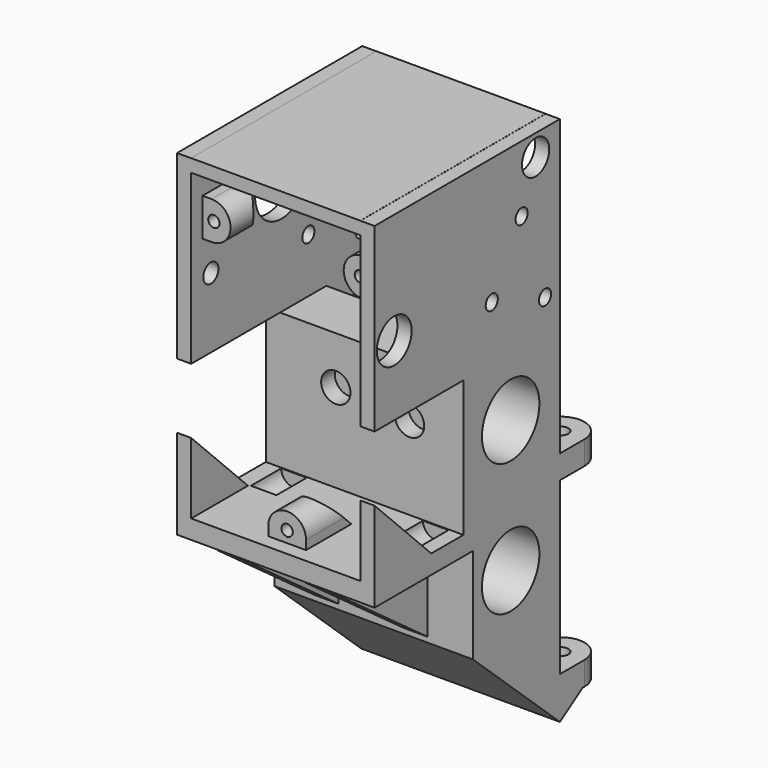
from build123d import *

# Parameters (mm, degrees)
CYLINDER168_R              = 1.6
CYLINDER168_DEPTH          = 90
CYLINDER167_R              = 1.6
CYLINDER167_DEPTH          = 90
CYLINDER109_R              = 7.6
CYLINDER109_DEPTH          = 45
CYLINDER182_R              = 3.1
CYLINDER182_DEPTH          = 28
CYLINDER203_R              = 3.1
CYLINDER203_DEPTH          = 28
CYLINDER213_R              = 4.6
CYLINDER213_DEPTH          = 10
CYLINDER184_R              = 3.6
CYLINDER184_DEPTH          = 42
CYLINDER212_R              = 7
CYLINDER212_DEPTH          = 10
CYLINDER211_R              = 2
CYLINDER211_DEPTH          = 10
CYLINDER210_R              = 2
CYLINDER210_DEPTH          = 10
CYLINDER209_R              = 1.6
CYLINDER209_DEPTH          = 53
CYLINDER196_R              = 1.6
CYLINDER196_DEPTH          = 53
CYLINDER198_R              = 1.6
CYLINDER198_DEPTH          = 53
CYLINDER110_R              = 7.6
CYLINDER110_DEPTH          = 45
CYLINDER204_R              = 1.2
CYLINDER204_DEPTH          = 15
BOX086_W                   = 10
BOX086_H                   = 10
BOX086_DEPTH               = 10
BOX086_PLACEMENT_ANGLE     = 45
EXTRUDE079_DEPTH           = 12
CUT241_PLACEMENT_ANGLE     = 90
CYLINDER206_R              = 1.2
CYLINDER206_DEPTH          = 15
BOX088_W                   = 10
BOX088_H                   = 10
BOX088_DEPTH               = 10
BOX088_PLACEMENT_ANGLE     = 45
EXTRUDE081_DEPTH           = 12
CUT245_PLACEMENT_ANGLE     = 90
CYLINDER205_R              = 1.2
CYLINDER205_DEPTH          = 15
BOX087_W                   = 10
BOX087_H                   = 10
BOX087_DEPTH               = 10
BOX087_PLACEMENT_ANGLE     = 45
EXTRUDE080_DEPTH           = 12
CYLINDER200_R              = 2.7
CYLINDER200_DEPTH          = 8
CYLINDER108_R              = 2.7
CYLINDER108_DEPTH          = 8
EXTRUDE069_DEPTH           = 5
EXTRUDE069_PLACEMENT_ANGLE = 180
EXTRUDE078_DEPTH           = 22
EXTRUDE071_DEPTH           = 5
EXTRUDE071_PLACEMENT_ANGLE = 180
EXTRUDE068_DEPTH           = 5
EXTRUDE068_PLACEMENT_ANGLE = 180
EXTRUDE072_DEPTH           = 22
EXTRUDE070_DEPTH           = 5
EXTRUDE070_PLACEMENT_ANGLE = 180
EXTRUDE077_DEPTH           = 10
EXTRUDE076_DEPTH           = 10
BOX083_W                   = 41.8
BOX083_H                   = 3
BOX083_DEPTH               = 28.8
EXTRUDE033_DEPTH           = 5
BOX077_W                   = 41.8
BOX077_H                   = 4
BOX077_DEPTH               = 26
EXTRUDE074_DEPTH           = 3
BOX085_W                   = 10
BOX085_H                   = 24
BOX085_DEPTH               = 12
BOX080_W                   = 3
BOX080_H                   = 49
BOX080_DEPTH               = 43.4
BOX082_W                   = 35.8
BOX082_H                   = 49
BOX082_DEPTH               = 2.71828
BOX084_W                   = 10
BOX084_H                   = 24
BOX084_DEPTH               = 12
BOX079_W                   = 3
BOX079_H                   = 49
BOX079_DEPTH               = 44
EXTRUDE032_DEPTH           = 5
EXTRUDE073_DEPTH           = 3
EXTRUDE075_DEPTH           = 45
CYLINDER148_R              = 11.5
CYLINDER148_DEPTH          = 44
BOX_W                      = 42
BOX_H                      = 23
BOX_DEPTH                  = 74


with BuildPart() as cylinder168:
    # Cylinder168 → Cylinder168 (new body)
    with BuildSketch(Plane(origin=(104, 44.4, -2.8), x_dir=(1, 0, 0), z_dir=(0, 0, 1))):
        Circle(CYLINDER168_R)
    extrude(amount=CYLINDER168_DEPTH)


with BuildPart() as cylinder167:
    # Cylinder167 → Cylinder167 (new body)
    with BuildSketch(Plane(origin=(136.1, 44.4, -0.3), x_dir=(1, 0, 0), z_dir=(0, 0, 1))):
        Circle(CYLINDER167_R)
    extrude(amount=CYLINDER167_DEPTH)


with BuildPart() as cylinder109:
    # Cylinder109 → Cylinder109 (new body)
    with BuildSketch(Plane(origin=(96.2, 25, 32), x_dir=(0, 1, 0), z_dir=(1, 0, 0))):
        Circle(CYLINDER109_R)
    extrude(amount=CYLINDER109_DEPTH)


with BuildPart() as cylinder182:
    # Cylinder182 → Cylinder182 (new body)
    with BuildSketch(Plane(origin=(114, -11.9, 62.4), x_dir=(1, 0, 0), z_dir=(0, 1, 0))):
        Circle(CYLINDER182_R)
    extrude(amount=CYLINDER182_DEPTH)


with BuildPart() as cylinder203:
    # Cylinder203 → Cylinder203 (new body)
    with BuildSketch(Plane(origin=(129.6, -11.9, 61.3), x_dir=(1, 0, 0), z_dir=(0, 1, 0))):
        Circle(CYLINDER203_R)
    extrude(amount=CYLINDER203_DEPTH)


with BuildPart() as cylinder213:
    # Cylinder213 → Cylinder213 (new body)
    with BuildSketch(Plane(origin=(144.1, -5.8, 87.3), x_dir=(0, 0, 1), z_dir=(-1, 0, 0))):
        Circle(CYLINDER213_R)
    extrude(amount=CYLINDER213_DEPTH)


with BuildPart() as cylinder184:
    # Cylinder184 → Cylinder184 (new body)
    with BuildSketch(Plane(origin=(144.1, 31.6, 106.3), x_dir=(0, 0, 1), z_dir=(-1, 0, 0))):
        Circle(CYLINDER184_R)
    extrude(amount=CYLINDER184_DEPTH)


with BuildPart() as cylinder212:
    # Cylinder212 → Cylinder212 (new body)
    with BuildSketch(Plane(origin=(95.3, 12.9, 96.8), x_dir=(0, 0, -1), z_dir=(1, 0, 0))):
        Circle(CYLINDER212_R)
    extrude(amount=CYLINDER212_DEPTH)


with BuildPart() as cylinder211:
    # Cylinder211 → Cylinder211 (new body)
    with BuildSketch(Plane(origin=(95.2, 31.6, 106.3), x_dir=(0, 0, -1), z_dir=(1, 0, 0))):
        Circle(CYLINDER211_R)
    extrude(amount=CYLINDER211_DEPTH)


with BuildPart() as cylinder210:
    # Cylinder210 → Cylinder210 (new body)
    with BuildSketch(Plane(origin=(95.2, -5.8, 87.3), x_dir=(0, 0, -1), z_dir=(1, 0, 0))):
        Circle(CYLINDER210_R)
    extrude(amount=CYLINDER210_DEPTH)


with BuildPart() as cylinder209:
    # Cylinder209 → Cylinder209 (new body)
    with BuildSketch(Plane(origin=(95.8, 34.1, 79.2), x_dir=(0, 0, -1), z_dir=(1, 0, 0))):
        Circle(CYLINDER209_R)
    extrude(amount=CYLINDER209_DEPTH)


with BuildPart() as cylinder196:
    # Cylinder196 → Cylinder196 (new body)
    with BuildSketch(Plane(origin=(95.8, 27.9, 96.8), x_dir=(0, 0, -1), z_dir=(1, 0, 0))):
        Circle(CYLINDER196_R)
    extrude(amount=CYLINDER196_DEPTH)


with BuildPart() as cylinder198:
    # Cylinder198 → Cylinder198 (new body)
    with BuildSketch(Plane(origin=(95.8, 20, 84), x_dir=(0, 0, -1), z_dir=(1, 0, 0))):
        Circle(CYLINDER198_R)
    extrude(amount=CYLINDER198_DEPTH)


with BuildPart() as cylinder110:
    # Cylinder110 → Cylinder110 (new body)
    with BuildSketch(Plane(origin=(96.2, 25, 60), x_dir=(0, 1, 0), z_dir=(1, 0, 0))):
        Circle(CYLINDER110_R)
    extrude(amount=CYLINDER110_DEPTH)


with BuildPart() as cylinder204:
    # Cylinder204 → Cylinder204 (new body)
    with BuildSketch(Plane(origin=(120.1, -9.1, 46.1), x_dir=(1, 0, 0), z_dir=(0, 1, 0))):
        Circle(CYLINDER204_R)
    extrude(amount=CYLINDER204_DEPTH)


with BuildPart() as box086:
    # Box086 → Box086 (new body)
    with BuildSketch(Plane.XY):
        with Locations((5, 5)):
            Rectangle(BOX086_W, BOX086_H)
    extrude(amount=BOX086_DEPTH)


with BuildPart() as box086_1:
    # Box086 placement: moved
    add(box086.part.moved(Location((115, 4.905863, 42.757899))).rotate(Axis((115, 4.905863, 42.757899), (1, 0, 0)), BOX086_PLACEMENT_ANGLE))


with BuildPart() as cut241:
    # Sketch066 → Extrude079 (new body)
    with BuildSketch(Plane.XZ):
        with BuildLine():
            ThreePointArc((117.105829, 45.629789), (113.105829, 49.62979), (109.105829, 45.629789))
            Line((109.105829, 45.629789), (109.105829, 43.629789))
            Line((109.105829, 43.629789), (117.105829, 43.629789))
            Line((117.105829, 45.629789), (117.105829, 43.629789))
        make_face()
    extrude(amount=-EXTRUDE079_DEPTH)


with BuildPart() as cut241_1:
    # Extrude079 placement: moved
    add(cut241.part.moved(Location((7, -8, 0))))

    # Cut240: cut Box086
    add(box086_1.part, mode=Mode.SUBTRACT)

    # Cut241: cut Cylinder204
    add(cylinder204.part, mode=Mode.SUBTRACT)


with BuildPart() as cut241_2:
    # Cut241 placement: moved
    add(cut241_1.part.moved(Location((181.7, 0, -21.7))).rotate(Axis((181.7, 0, -21.7), (0, -1, 0)), CUT241_PLACEMENT_ANGLE))


with BuildPart() as cylinder206:
    # Cylinder206 → Cylinder206 (new body)
    with BuildSketch(Plane(origin=(120.1, -9.1, 46.1), x_dir=(1, 0, 0), z_dir=(0, 1, 0))):
        Circle(CYLINDER206_R)
    extrude(amount=CYLINDER206_DEPTH)


with BuildPart() as box088:
    # Box088 → Box088 (new body)
    with BuildSketch(Plane.XY):
        with Locations((5, 5)):
            Rectangle(BOX088_W, BOX088_H)
    extrude(amount=BOX088_DEPTH)


with BuildPart() as box088_1:
    # Box088 placement: moved
    add(box088.part.moved(Location((115, 4.905863, 42.757899))).rotate(Axis((115, 4.905863, 42.757899), (1, 0, 0)), BOX088_PLACEMENT_ANGLE))


with BuildPart() as cut245:
    # Sketch068 → Extrude081 (new body)
    with BuildSketch(Plane.XZ):
        with BuildLine():
            ThreePointArc((117.105829, 45.629789), (113.105829, 49.62979), (109.105829, 45.629789))
            Line((109.105829, 45.629789), (109.105829, 43.629789))
            Line((109.105829, 43.629789), (117.105829, 43.629789))
            Line((117.105829, 45.629789), (117.105829, 43.629789))
        make_face()
    extrude(amount=-EXTRUDE081_DEPTH)


with BuildPart() as cut245_1:
    # Extrude081 placement: moved
    add(cut245.part.moved(Location((7, -8, 0))))

    # Cut244: cut Box088
    add(box088_1.part, mode=Mode.SUBTRACT)

    # Cut245: cut Cylinder206
    add(cylinder206.part, mode=Mode.SUBTRACT)


with BuildPart() as cut245_2:
    # Cut245 placement: moved
    add(cut245_1.part.moved(Location((58.5, 0, 218.7))).rotate(Axis((58.5, 0, 218.7), (0, 1, 0)), CUT245_PLACEMENT_ANGLE))


with BuildPart() as cylinder205:
    # Cylinder205 → Cylinder205 (new body)
    with BuildSketch(Plane(origin=(120.1, -9.1, 46.1), x_dir=(1, 0, 0), z_dir=(0, 1, 0))):
        Circle(CYLINDER205_R)
    extrude(amount=CYLINDER205_DEPTH)


with BuildPart() as box087:
    # Box087 → Box087 (new body)
    with BuildSketch(Plane.XY):
        with Locations((5, 5)):
            Rectangle(BOX087_W, BOX087_H)
    extrude(amount=BOX087_DEPTH)


with BuildPart() as box087_1:
    # Box087 placement: moved
    add(box087.part.moved(Location((115, 4.905863, 42.757899))).rotate(Axis((115, 4.905863, 42.757899), (1, 0, 0)), BOX087_PLACEMENT_ANGLE))


with BuildPart() as cut243:
    # Sketch067 → Extrude080 (new body)
    with BuildSketch(Plane.XZ):
        with BuildLine():
            ThreePointArc((117.105829, 45.629789), (113.105829, 49.62979), (109.105829, 45.629789))
            Line((109.105829, 45.629789), (109.105829, 43.629789))
            Line((109.105829, 43.629789), (117.105829, 43.629789))
            Line((117.105829, 45.629789), (117.105829, 43.629789))
        make_face()
    extrude(amount=-EXTRUDE080_DEPTH)


with BuildPart() as cut243_1:
    # Extrude080 placement: moved
    add(cut243.part.moved(Location((7, -8, 0))))

    # Cut242: cut Box087
    add(box087_1.part, mode=Mode.SUBTRACT)

    # Cut243: cut Cylinder205
    add(cylinder205.part, mode=Mode.SUBTRACT)


with BuildPart() as cylinder200:
    # Cylinder200 → Cylinder200 (new body)
    with BuildSketch(Plane(origin=(135.3, 4.3, 43.7), x_dir=(1, 0, 0), z_dir=(0, 1, 0))):
        Circle(CYLINDER200_R)
    extrude(amount=CYLINDER200_DEPTH)


with BuildPart() as cylinder108:
    # Cylinder108 → Cylinder108 (new body)
    with BuildSketch(Plane(origin=(105.3, 4.3, 43.7), x_dir=(1, 0, 0), z_dir=(0, 1, 0))):
        Circle(CYLINDER108_R)
    extrude(amount=CYLINDER108_DEPTH)


with BuildPart() as extrude069:
    # Sketch057 → Extrude069 (new body)
    with BuildSketch(Plane.XY):
        with BuildLine():
            ThreePointArc((94, 83), (99, 78), (104, 83))
            Line((104, 83), (104, 89.5))
            Line((94, 89.5), (104, 89.5))
            Line((94, 83), (94, 89.5))
        make_face()
    extrude(amount=EXTRUDE069_DEPTH)


with BuildPart() as extrude069_1:
    # Extrude069 placement: moved
    add(extrude069.part.moved(Location((235, 127.5, 43.5))).rotate(Axis((235, 127.5, 43.5), (0, 0, 1)), EXTRUDE069_PLACEMENT_ANGLE))


with BuildPart() as extrude078:
    # Sketch065 → Extrude078 (new body)
    with BuildSketch(Plane.YZ):
        Polygon((44.5, 43.5), (44.5, 48.5), (32.251552, 56.334994), (32.251552, 35.665006), align=None)
    extrude(amount=-EXTRUDE078_DEPTH)


with BuildPart() as extrude078_1:
    # Extrude078 placement: moved
    add(extrude078.part.moved(Location((131, 0, 0))))


with BuildPart() as extrude071:
    # Sketch059 → Extrude071 (new body)
    with BuildSketch(Plane.XY):
        with BuildLine():
            ThreePointArc((94, 83), (99, 78), (104, 83))
            Line((104, 83), (104, 89.5))
            Line((94, 89.5), (104, 89.5))
            Line((94, 83), (94, 89.5))
        make_face()
    extrude(amount=EXTRUDE071_DEPTH)


with BuildPart() as extrude071_1:
    # Extrude071 placement: moved
    add(extrude071.part.moved(Location((203, 127.5, 43.5))).rotate(Axis((203, 127.5, 43.5), (0, 0, 1)), EXTRUDE071_PLACEMENT_ANGLE))


with BuildPart() as extrude068:
    # Sketch056 → Extrude068 (new body)
    with BuildSketch(Plane.XY):
        with BuildLine():
            ThreePointArc((94, 83), (99, 78), (104, 83))
            Line((104, 83), (104, 89.5))
            Line((94, 89.5), (104, 89.5))
            Line((94, 83), (94, 89.5))
        make_face()
    extrude(amount=EXTRUDE068_DEPTH)


with BuildPart() as extrude068_1:
    # Extrude068 placement: moved
    add(extrude068.part.moved(Location((203, 127.5, 2.4))).rotate(Axis((203, 127.5, 2.4), (0, 0, 1)), EXTRUDE068_PLACEMENT_ANGLE))


with BuildPart() as extrude072:
    # Sketch → Extrude072 (new body)
    with BuildSketch(Plane.YZ):
        Polygon((44.5, 43.5), (44.5, 48.5), (38.5, 56.752062), (38.5, 39.6), align=None)
    extrude(amount=-EXTRUDE072_DEPTH)


with BuildPart() as extrude072_1:
    # Extrude072 placement: moved
    add(extrude072.part.moved(Location((131, -0.5, -41.1))))


with BuildPart() as extrude070:
    # Sketch058 → Extrude070 (new body)
    with BuildSketch(Plane.XY):
        with BuildLine():
            ThreePointArc((94, 83), (99, 78), (104, 83))
            Line((104, 83), (104, 89.5))
            Line((94, 89.5), (104, 89.5))
            Line((94, 83), (94, 89.5))
        make_face()
    extrude(amount=EXTRUDE070_DEPTH)


with BuildPart() as extrude070_1:
    # Extrude070 placement: moved
    add(extrude070.part.moved(Location((235, 127.5, 2.4))).rotate(Axis((235, 127.5, 2.4), (0, 0, 1)), EXTRUDE070_PLACEMENT_ANGLE))


with BuildPart() as extrude077:
    # Sketch064 → Extrude077 (new body)
    with BuildSketch(Plane.YZ):
        Polygon((38, -1.5), (38, 2.4), (44, 2.4), align=None)
    extrude(amount=-EXTRUDE077_DEPTH)


with BuildPart() as extrude077_1:
    # Extrude077 placement: moved
    add(extrude077.part.moved(Location((141, 0, 0))))


with BuildPart() as extrude076:
    # Sketch063 → Extrude076 (new body)
    with BuildSketch(Plane.YZ):
        Polygon((38, -1.5), (38, 2.4), (44, 2.4), align=None)
    extrude(amount=-EXTRUDE076_DEPTH)


with BuildPart() as extrude076_1:
    # Extrude076 placement: moved
    add(extrude076.part.moved(Location((109, 0, 0))))


with BuildPart() as box083:
    # Box083 → Box083 (new body)
    with BuildSketch(Plane(origin=(99.2, 12.5, 43.7), x_dir=(1, 0, 0), z_dir=(0, 0, 1))):
        with Locations((20.9, 1.5)):
            Rectangle(BOX083_W, BOX083_H)
    extrude(amount=BOX083_DEPTH)


with BuildPart() as extrude033:
    # Sketch026 → Extrude033 (new body)
    with BuildSketch(Plane.YZ):
        Polygon((15, 19), (15, 38), (-11, 38), align=None)
    extrude(amount=EXTRUDE033_DEPTH)


with BuildPart() as extrude033_1:
    # Extrude033 placement: moved
    add(extrude033.part.moved(Location((126.4, 0, 1.6))))


with BuildPart() as box077:
    # Box077 → Box077 (new body)
    with BuildSketch(Plane(origin=(99.2, 15, 39.7), x_dir=(1, 0, 0), z_dir=(0, -1, 0))):
        with Locations((20.9, 2)):
            Rectangle(BOX077_W, BOX077_H)
    extrude(amount=BOX077_DEPTH)


with BuildPart() as extrude074:
    # Sketch061 → Extrude074 (new body)
    with BuildSketch(Plane.YZ):
        Polygon((-11, 43.7), (-11, 58.7), (4, 43.7), align=None)
    extrude(amount=-EXTRUDE074_DEPTH)


with BuildPart() as extrude074_1:
    # Extrude074 placement: moved
    add(extrude074.part.moved(Location((141, 0, 0))))


with BuildPart() as box085:
    # Box085 → Box085 (new body)
    with BuildSketch(Plane(origin=(138, -11.5, 60.5), x_dir=(1, 0, 0), z_dir=(0, 0, 1))):
        with Locations((5, 12)):
            Rectangle(BOX085_W, BOX085_H)
    extrude(amount=BOX085_DEPTH)


with BuildPart() as cut236:
    # Box080 → Box080 (new body)
    with BuildSketch(Plane(origin=(138, -11, 67.4), x_dir=(1, 0, 0), z_dir=(0, 0, 1))):
        with Locations((1.5, 24.5)):
            Rectangle(BOX080_W, BOX080_H)
    extrude(amount=BOX080_DEPTH)

    # Cut236: cut Box085
    add(box085.part, mode=Mode.SUBTRACT)


with BuildPart() as box082:
    # Box082 → Box082 (new body)
    with BuildSketch(Plane(origin=(102.2, -11, 108.1), x_dir=(1, 0, 0), z_dir=(0, 0, 1))):
        with Locations((17.9, 24.5)):
            Rectangle(BOX082_W, BOX082_H)
    extrude(amount=BOX082_DEPTH)


with BuildPart() as box084:
    # Box084 → Box084 (new body)
    with BuildSketch(Plane(origin=(95.4, -11.5, 60.5), x_dir=(1, 0, 0), z_dir=(0, 0, 1))):
        with Locations((5, 12)):
            Rectangle(BOX084_W, BOX084_H)
    extrude(amount=BOX084_DEPTH)


with BuildPart() as cut:
    # Box079 → Box079 (new body)
    with BuildSketch(Plane(origin=(99.2, -11, 66.8), x_dir=(1, 0, 0), z_dir=(0, 0, 1))):
        with Locations((1.5, 24.5)):
            Rectangle(BOX079_W, BOX079_H)
    extrude(amount=BOX079_DEPTH)

    # Cut: cut Box084
    add(box084.part, mode=Mode.SUBTRACT)


with BuildPart() as extrude032:
    # Sketch025 → Extrude032 (new body)
    with BuildSketch(Plane.YZ):
        Polygon((15, 19), (15, 38), (-11, 38), align=None)
    extrude(amount=EXTRUDE032_DEPTH)


with BuildPart() as extrude032_1:
    # Extrude032 placement: moved
    add(extrude032.part.moved(Location((107.6, 0, 1.6))))


with BuildPart() as extrude073:
    # Sketch060 → Extrude073 (new body)
    with BuildSketch(Plane.YZ):
        Polygon((-11, 43.7), (-11, 58.7), (4, 43.7), align=None)
    extrude(amount=-EXTRUDE073_DEPTH)


with BuildPart() as extrude073_1:
    # Extrude073 placement: moved
    add(extrude073.part.moved(Location((102.2, 0, 0))))


with BuildPart() as extrude075:
    # Sketch062 → Extrude075 (new body)
    with BuildSketch(Plane.YZ):
        Polygon((15, 19.5), (15, -1.5), (38, -1.5), align=None)
    extrude(amount=-EXTRUDE075_DEPTH)


with BuildPart() as extrude075_1:
    # Extrude075 placement: moved
    add(extrude075.part.moved(Location((141.7, 0, 0))))


with BuildPart() as cylinder148:
    # Cylinder148 → Cylinder148 (new body)
    with BuildSketch(Plane(origin=(97.2, 34.1, 79.2), x_dir=(0, 0, -1), z_dir=(1, 0, 0))):
        Circle(CYLINDER148_R)
    extrude(amount=CYLINDER148_DEPTH)


with BuildPart() as cut259:
    # Box → Box (new body)
    with BuildSketch(Plane(origin=(99, 15, -1.5), x_dir=(1, 0, 0), z_dir=(0, 0, 1))):
        with Locations((21, 11.5)):
            Rectangle(BOX_W, BOX_H)
    extrude(amount=BOX_DEPTH)

    # Cut229: cut Cylinder148
    add(cylinder148.part, mode=Mode.SUBTRACT)

    # Cut237: cut Extrude075
    add(extrude075_1.part, mode=Mode.SUBTRACT)

    # Fusion: union Box083, Extrude033, Box077, Extrude074, Cut236, Box082, Cut, Extrude032, Extrude073
    add(box083.part)
    add(extrude033_1.part)
    add(box077.part)
    add(extrude074_1.part)
    add(cut236.part)
    add(box082.part)
    add(cut.part)
    add(extrude032_1.part)
    add(extrude073_1.part)

    # Fusion109: union Extrude069, Extrude078, Extrude071, Extrude068, Extrude072, Extrude070, Extrude077, Extrude076
    add(extrude069_1.part)
    add(extrude078_1.part)
    add(extrude071_1.part)
    add(extrude068_1.part)
    add(extrude072_1.part)
    add(extrude070_1.part)
    add(extrude077_1.part)
    add(extrude076_1.part)

    # Cut238: cut Cylinder108
    add(cylinder108.part, mode=Mode.SUBTRACT)

    # Cut239: cut Cylinder200
    add(cylinder200.part, mode=Mode.SUBTRACT)

    # Fusion110: union Cut241, Cut245, Cut243
    add(cut241_2.part)
    add(cut245_2.part)
    add(cut243_1.part)

    # Cut246: cut Cylinder110
    add(cylinder110.part, mode=Mode.SUBTRACT)

    # Cut247: cut Cylinder198
    add(cylinder198.part, mode=Mode.SUBTRACT)

    # Cut248: cut Cylinder196
    add(cylinder196.part, mode=Mode.SUBTRACT)

    # Cut249: cut Cylinder209
    add(cylinder209.part, mode=Mode.SUBTRACT)

    # Cut250: cut Cylinder210
    add(cylinder210.part, mode=Mode.SUBTRACT)

    # Cut251: cut Cylinder211
    add(cylinder211.part, mode=Mode.SUBTRACT)

    # Cut252: cut Cylinder212
    add(cylinder212.part, mode=Mode.SUBTRACT)

    # Cut253: cut Cylinder184
    add(cylinder184.part, mode=Mode.SUBTRACT)

    # Cut254: cut Cylinder213
    add(cylinder213.part, mode=Mode.SUBTRACT)

    # Cut255: cut Cylinder203
    add(cylinder203.part, mode=Mode.SUBTRACT)

    # Cut256: cut Cylinder182
    add(cylinder182.part, mode=Mode.SUBTRACT)

    # Cut257: cut Cylinder109
    add(cylinder109.part, mode=Mode.SUBTRACT)

    # Cut258: cut Cylinder167
    add(cylinder167.part, mode=Mode.SUBTRACT)

    # Cut259: cut Cylinder168
    add(cylinder168.part, mode=Mode.SUBTRACT)


solid = cut259.part
